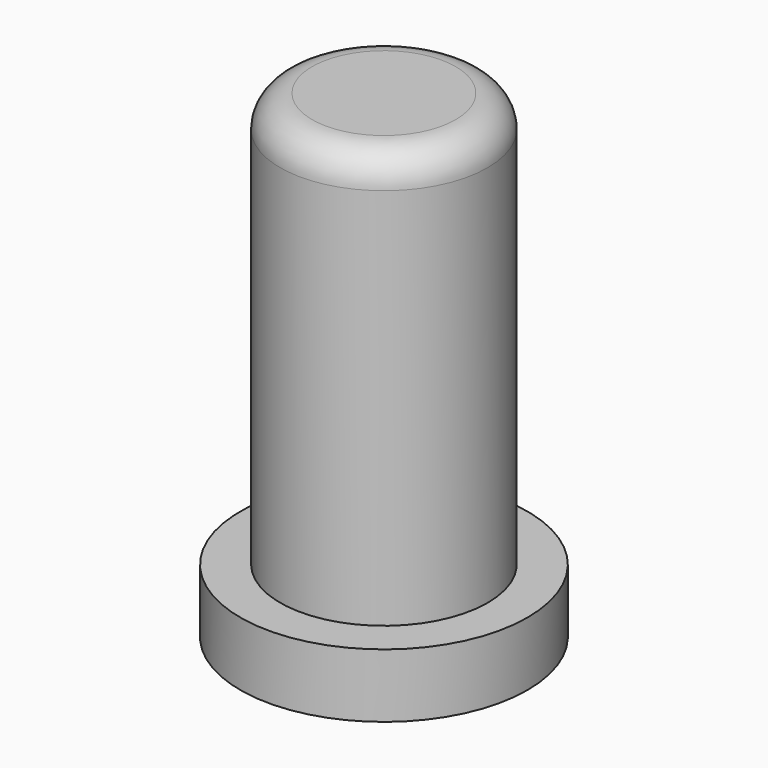
from build123d import *

# Parameters (mm, degrees)
F0_R     = 3.25
F1_DEPTH = 13
F0_R_2   = 4.5
F2_DEPTH = 2
F3_R     = 1


with BuildPart() as f1:
    # F0 (on Top) → F1 (new body)
    with BuildSketch(Plane.XY):
        with Locations((-22.529975, 0)):
            Circle(F0_R)
    extrude(amount=F1_DEPTH)

    # F0 (on Top) → F2 (join)
    with BuildSketch(Plane.XY):
        with Locations((-22.529975, 0)):
            Circle(F0_R_2)
        with Locations((-22.529975, 0)):
            Circle(F0_R, mode=Mode.SUBTRACT)
        with Locations((-22.529975, 0)):
            Circle(F0_R)
    extrude(amount=-F2_DEPTH)

    # F3
    f3_edges = [f1.edges().sort_by_distance(p)[0] for p in [
        (-25.779975, 0, 13),
    ]]
    fillet(f3_edges, radius=F3_R)


solid = f1.part
